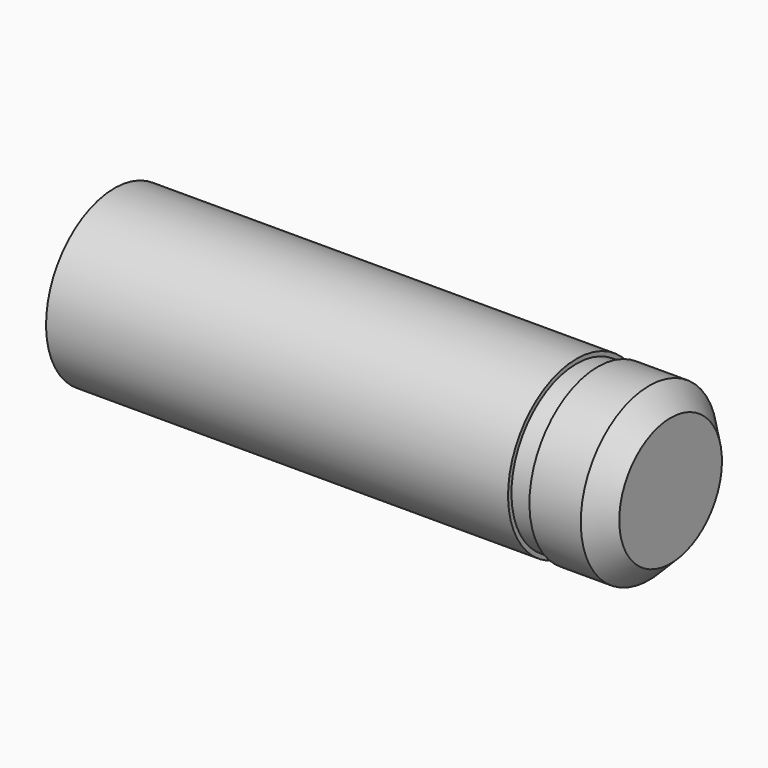
from build123d import *

# Parameters (mm, degrees)
F2_SIZE = 0.5


with BuildPart() as f1:
    # F0 (on Front) → F1 (revolve)
    with BuildSketch(Plane.XZ):
        Polygon((0, 2), (0, 0), (13, 0), (13, 2), (11.3, 2), (11.3, 1.9), (10.8, 1.9), (10.8, 2), align=None)
    revolve(axis=Axis((1.266059, 0, 0), (1, 0, 0)))

    # F2
    f2_edges = [f1.edges().sort_by_distance(p)[0] for p in [
        (13, 0, -2),
    ]]
    chamfer(f2_edges, length=F2_SIZE)


solid = f1.part
